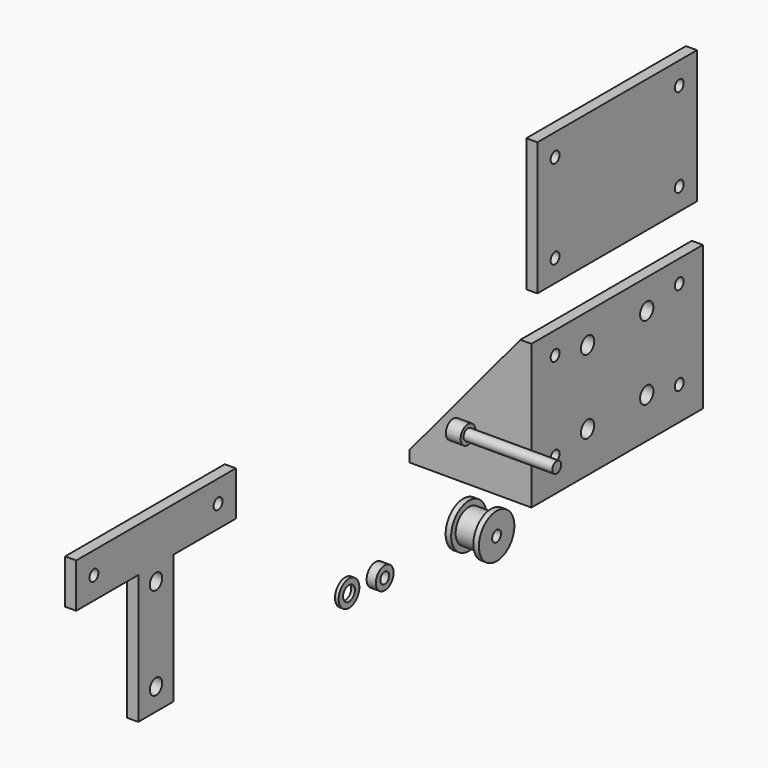
from build123d import *

# Parameters (mm, degrees)
F0_R      = 6
F0_R_2    = 4.5
F0_R_3    = 1.5
F1_DEPTH  = 1.5
F2_DEPTH  = 7.5
F3_R      = 6
F3_R_2    = 4.5
F4_DEPTH  = 1.5
F5_DEPTH  = 9
F6_W      = 54
F6_H      = 36
F6_R      = 1.5
F6_R_2    = 2.25
F6_H_2    = 3
F7_DEPTH  = 3
F8_R      = 1.5
F9_DEPTH  = 24
F8_R_2    = 2.5
F10_DEPTH = 4
F11_R     = 3
F11_R_2   = 1.5
F12_DEPTH = 2.5
F13_DEPTH = 3
F14_DEPTH = 30
F15_R     = 2.25
F16_DEPTH = 3
F18_DEPTH = 2
F20_DEPTH = 2
F21_R     = 2.1
F21_R_2   = 1.5
F22_DEPTH = 3
F11_R_3   = 3.5
F11_R_4   = 2
F23_DEPTH = 1


with BuildPart() as f1:
    # F0 (on Right) → F1 (new body)
    with BuildSketch(Plane.YZ):
        Circle(F0_R)
        Circle(F0_R_2, mode=Mode.SUBTRACT)
        Circle(F0_R_2)
        Circle(F0_R_3, mode=Mode.SUBTRACT)
        Circle(F0_R_3)
    extrude(amount=F1_DEPTH)

    # F0 (on Right) → F2 (join)
    with BuildSketch(Plane.YZ):
        Circle(F0_R_2)
        Circle(F0_R_3, mode=Mode.SUBTRACT)
        Circle(F0_R_3)
    extrude(amount=F2_DEPTH)

    # F3 (on face) → F4 (join)
    with BuildSketch(Plane.YZ.offset(7.5)):
        Circle(F3_R)
        Circle(F3_R_2, mode=Mode.SUBTRACT)
        Circle(F3_R_2)
    extrude(amount=F4_DEPTH)

    # F0 (on Right) → F5 (cut, through all)
    with BuildSketch(Plane.YZ):
        Circle(F0_R_3)
    extrude(amount=F5_DEPTH, mode=Mode.SUBTRACT)


with BuildPart() as f7:
    # F6 (on Right) → F7 (new body)
    with BuildSketch(Plane.YZ):
        with Locations((48.2780604661, 18)):
            Rectangle(F6_W, F6_H)
        with Locations((27.2780604661, 6)):
            Circle(F6_R, mode=Mode.SUBTRACT)
        with Locations((38.2780604661, 8)):
            Circle(F6_R_2, mode=Mode.SUBTRACT)
        with Locations((27.2780604661, 30)):
            Circle(F6_R, mode=Mode.SUBTRACT)
        with Locations((38.2780604661, 28)):
            Circle(F6_R_2, mode=Mode.SUBTRACT)
        with Locations((58.2780604661, 8)):
            Circle(F6_R_2, mode=Mode.SUBTRACT)
        with Locations((69.2780604661, 6)):
            Circle(F6_R, mode=Mode.SUBTRACT)
        with Locations((58.2780604661, 28)):
            Circle(F6_R_2, mode=Mode.SUBTRACT)
        with Locations((69.2780604661, 30)):
            Circle(F6_R, mode=Mode.SUBTRACT)
        with Locations((48.2780604661, 18)):
            Rectangle(F6_W, F6_H)
        with Locations((27.2780604661, 6)):
            Circle(F6_R, mode=Mode.SUBTRACT)
        with Locations((38.2780604661, 8)):
            Circle(F6_R_2, mode=Mode.SUBTRACT)
        with Locations((27.2780604661, 30)):
            Circle(F6_R, mode=Mode.SUBTRACT)
        with Locations((38.2780604661, 28)):
            Circle(F6_R_2, mode=Mode.SUBTRACT)
        with Locations((58.2780604661, 8)):
            Circle(F6_R_2, mode=Mode.SUBTRACT)
        with Locations((69.2780604661, 6)):
            Circle(F6_R, mode=Mode.SUBTRACT)
        with Locations((58.2780604661, 28)):
            Circle(F6_R_2, mode=Mode.SUBTRACT)
        with Locations((69.2780604661, 30)):
            Circle(F6_R, mode=Mode.SUBTRACT)
        with Locations((48.2780604661, -1.5)):
            Rectangle(F6_W, F6_H_2)
    extrude(amount=F7_DEPTH)

    # F6 (on Right) → F14 (join)
    with BuildSketch(Plane.YZ):
        with Locations((48.2780604661, -1.5)):
            Rectangle(F6_W, F6_H_2)
    extrude(amount=-F14_DEPTH)

    # F15 (on face) → F16 (cut, through all)
    with BuildSketch(Plane.XY):
        with Locations((-25, 38.2780604661)):
            Circle(F15_R)
        with Locations((-5, 38.2780604661)):
            Circle(F15_R)
        with Locations((-5, 58.2780604661)):
            Circle(F15_R)
        with Locations((-25, 58.2780604661)):
            Circle(F15_R)
    extrude(amount=-F16_DEPTH, mode=Mode.SUBTRACT)

    # F17 (on face) → F18 (join)
    with BuildSketch(Plane(origin=(0, 75.2780604661, 0), x_dir=(-1, 0, 0), z_dir=(0, 1, 0))):
        Polygon((30, 0), (0, 36), (0, 0), align=None)
        Polygon((0, 0), (0, 36), (-3, 36), (-3, -3), (30, -3), (30, 0), align=None)
    extrude(amount=F18_DEPTH)

    # F19 (on face) → F20 (join)
    with BuildSketch(Plane.XZ.offset(-21.2780604661)):
        Polygon((0, 0), (0, 36), (-30, 0), align=None)
        Polygon((3, 36), (0, 36), (0, 0), (-30, 0), (-30, -3), (3, -3), align=None)
    extrude(amount=F20_DEPTH)


with BuildPart() as f9:
    # F8 (on Right) → F9 (new body)
    with BuildSketch(Plane.YZ):
        with Locations((1.5685909893, 20.6173099577)):
            Circle(F8_R)
    extrude(amount=F9_DEPTH)

    # F8 (on Right) → F10 (join)
    with BuildSketch(Plane.YZ):
        with Locations((1.5685909893, 20.6173099577)):
            Circle(F8_R_2)
        with Locations((1.5685909893, 20.6173099577)):
            Circle(F8_R, mode=Mode.SUBTRACT)
        with Locations((1.5685909893, 20.6173099577)):
            Circle(F8_R)
    extrude(amount=-F10_DEPTH)


with BuildPart() as f12:
    # F11 (on Right) → F12 (new body)
    with BuildSketch(Plane.YZ):
        with Locations((-29.7167665836, 0)):
            Circle(F11_R)
        with Locations((-29.7167665836, 0)):
            Circle(F11_R_2, mode=Mode.SUBTRACT)
    extrude(amount=F12_DEPTH)


with BuildPart() as f13:
    # F6 (on Right) → F13 (new body)
    with BuildSketch(Plane.YZ):
        with Locations((48.2780604661, 65.1936223805)):
            Rectangle(F6_W, F6_H)
        with Locations((27.2780604661, 53.1936223805)):
            Circle(F6_R, mode=Mode.SUBTRACT)
        with Locations((27.2780604661, 77.1936223805)):
            Circle(F6_R, mode=Mode.SUBTRACT)
        with Locations((69.2780604661, 53.1936223805)):
            Circle(F6_R, mode=Mode.SUBTRACT)
        with Locations((69.2780604661, 77.1936223805)):
            Circle(F6_R, mode=Mode.SUBTRACT)
    extrude(amount=F13_DEPTH)


with BuildPart() as f22:
    # F21 (on Right) → F22 (new body)
    with BuildSketch(Plane.YZ):
        Polygon((-113.7109005657, 0), (-101.7109005657, 0), (-101.7109005657, 35), (-80.7109005657, 35), (-80.7109005657, 47), (-134.7109005657, 47), (-134.7109005657, 35), (-113.7109005657, 35), align=None)
        with Locations((-107.7109005657, 6)):
            Circle(F21_R, mode=Mode.SUBTRACT)
        with Locations((-107.7109005657, 31)):
            Circle(F21_R, mode=Mode.SUBTRACT)
        with Locations((-128.7109005657, 41)):
            Circle(F21_R_2, mode=Mode.SUBTRACT)
        with Locations((-86.7109005657, 41)):
            Circle(F21_R_2, mode=Mode.SUBTRACT)
    extrude(amount=F22_DEPTH)


with BuildPart() as f23:
    # F11 (on Right) → F23 (new body)
    with BuildSketch(Plane.YZ):
        with Locations((-39.9316698313, 0)):
            Circle(F11_R_3)
        with Locations((-39.9316698313, 0)):
            Circle(F11_R_4, mode=Mode.SUBTRACT)
    extrude(amount=F23_DEPTH)


solid = Compound([f1.part, f7.part, f9.part, f12.part, f13.part, f22.part, f23.part])
